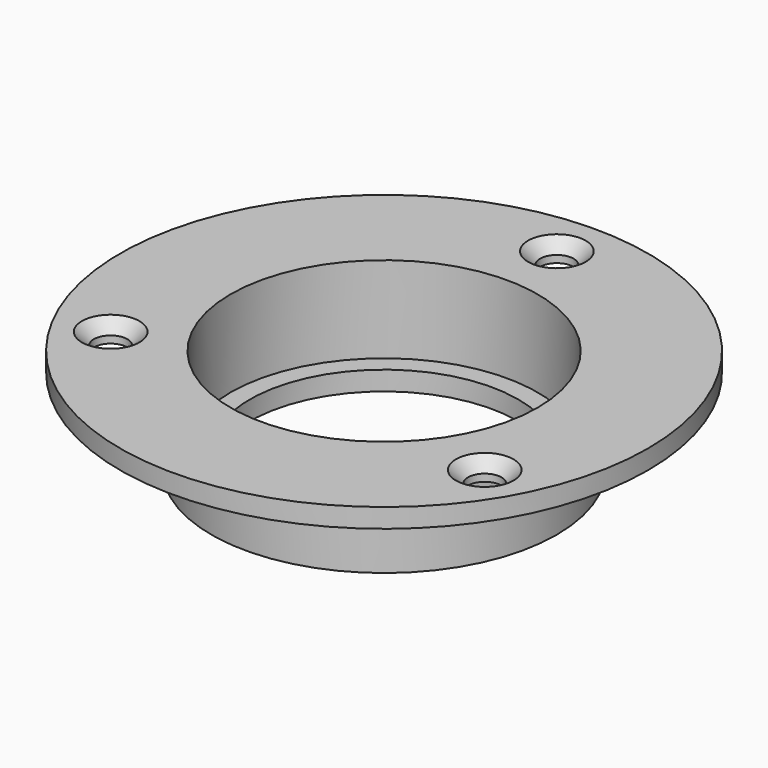
from build123d import *

# Parameters (mm, degrees)
F0_R           = 18
F0_R_2         = 16
F1_DEPTH       = 7
F2_R           = 27.5
F2_R_2         = 16
F3_DEPTH       = 2
F4_R           = 18
F4_R_2         = 14
F5_DEPTH       = 2
F7_D           = 3.5
F7_CSINK_D     = 6
F7_CSINK_ANGLE = 90


with BuildPart() as f1:
    # F0 (on Top) → F1 (new body)
    with BuildSketch(Plane.XY):
        Circle(F0_R)
        Circle(F0_R_2, mode=Mode.SUBTRACT)
    extrude(amount=-F1_DEPTH)

    # F2 (on Top) → F3 (join)
    with BuildSketch(Plane.XY):
        Circle(F2_R)
        Circle(F2_R_2, mode=Mode.SUBTRACT)
    extrude(amount=F3_DEPTH)

    # F4 (on face) → F5 (join)
    with BuildSketch(Plane(origin=(0, 0, -7), x_dir=(1, 0, 0), z_dir=(0, 0, -1))):
        Circle(F4_R)
        Circle(F4_R_2, mode=Mode.SUBTRACT)
    extrude(amount=F5_DEPTH)

    # F7 (through all)
    with Locations(Plane.XY.offset(2)):
        with Locations((0, 22.5), (-19.485572, -11.25), (19.485572, -11.25)):
            CounterSinkHole(F7_D / 2, F7_CSINK_D / 2, counter_sink_angle=F7_CSINK_ANGLE)


solid = f1.part
